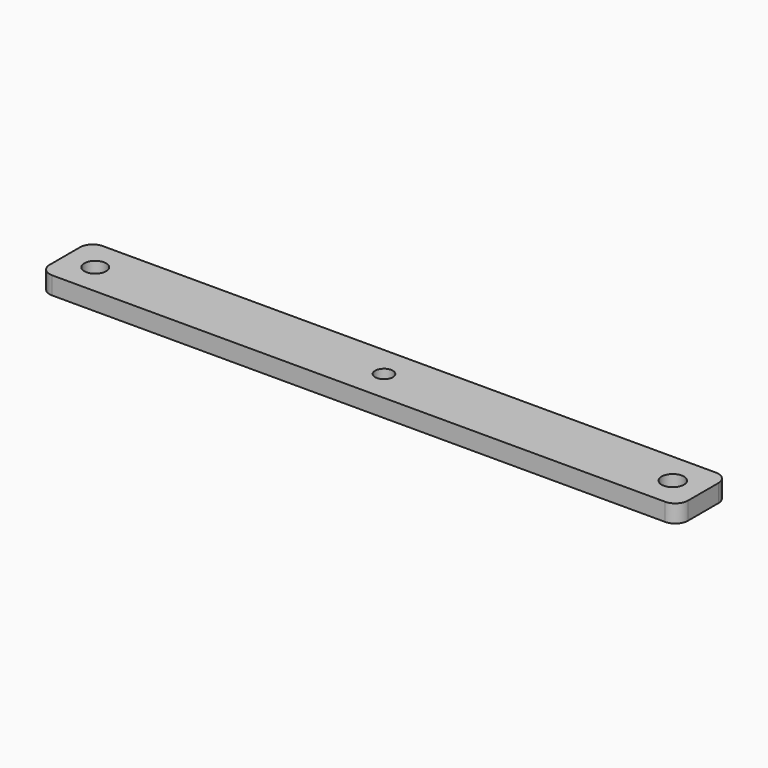
from build123d import *

# Parameters (mm, degrees)
F0_W     = 252
F0_H     = 25
F0_R     = 4.3
F0_R_2   = 3.5
F0_R_3   = 4.4
F1_DEPTH = 7
F2_R     = 5


with BuildPart() as f1:
    # F0 (on Top) → F1 (new body)
    with BuildSketch(Plane.XY):
        with Locations((-11.807408, -16.560878)):
            Rectangle(F0_W, F0_H)
        with Locations((-125.807408, -16.560878)):
            Circle(F0_R, mode=Mode.SUBTRACT)
        with Locations((-11.807408, -16.560878)):
            Circle(F0_R_2, mode=Mode.SUBTRACT)
        with Locations((102.192592, -16.560878)):
            Circle(F0_R_3, mode=Mode.SUBTRACT)
    extrude(amount=F1_DEPTH)

    # F2
    f2_edges = [f1.edges().sort_by_distance(p)[0] for p in [
        (114.192592, -29.060878, 3.5),
        (114.192592, -4.060878, 3.5),
        (-137.807408, -29.060878, 3.5),
        (-137.807408, -4.060878, 3.5),
    ]]
    fillet(f2_edges, radius=F2_R)


solid = f1.part
